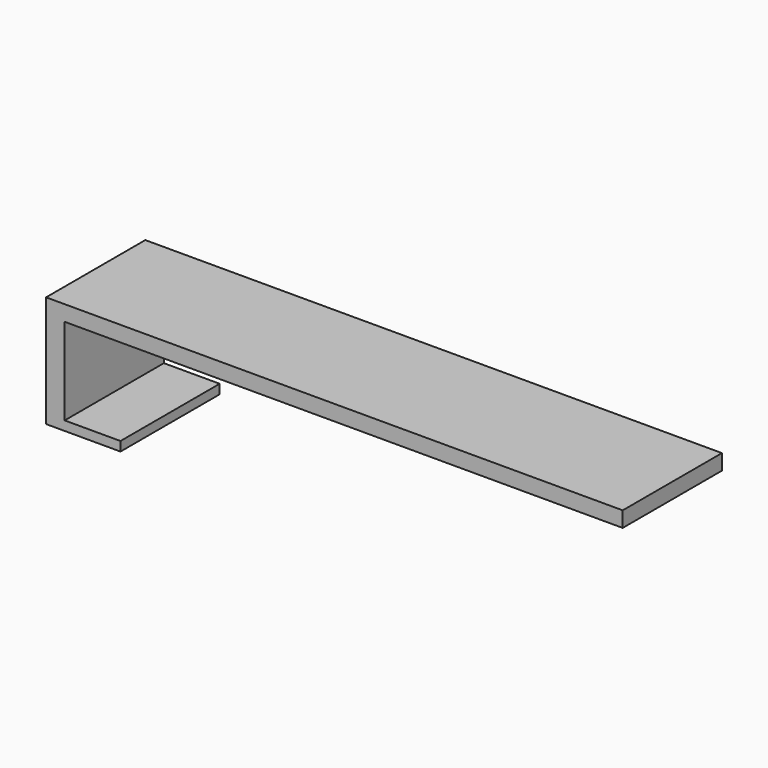
from build123d import *

# Parameters (mm, degrees)
PAD_DEPTH = 40


with BuildPart() as part:
    # Sketch001 → Pad (new body)
    with BuildSketch(Plane.XZ):
        Polygon((0, 0), (180, 0), (180, 5), (-6, 5), (-6, -31), (18, -31), (18, -28), (0, -28), align=None)
    extrude(amount=PAD_DEPTH)


solid = part.part
